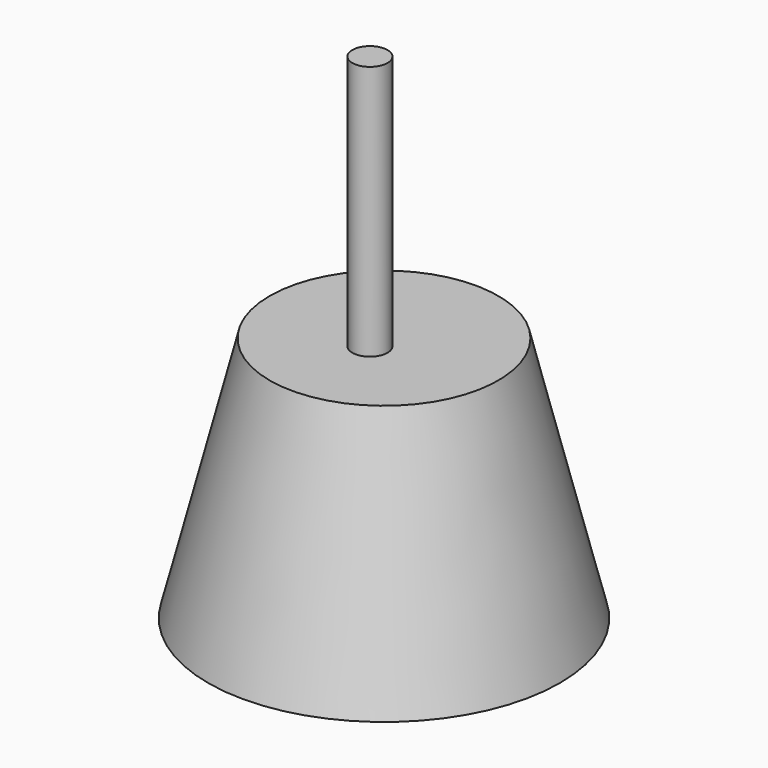
from build123d import *

# Parameters (mm, degrees)
CYLINDER086_R     = 2
CYLINDER086_DEPTH = 30


with BuildPart() as cylindre082:
    # Cylinder086 → Cylinder086 (new body)
    with BuildSketch(Plane(origin=(8, -13, 88), x_dir=(1, 0, 0), z_dir=(0, 0, 1))):
        Circle(CYLINDER086_R)
    extrude(amount=CYLINDER086_DEPTH)


with BuildPart() as obj1:
    # Cone017 → Cone017 (revolve)
    with BuildSketch(Plane(origin=(8, -11, 73), x_dir=(-1, 0, 0), z_dir=(0, 1, 0))):
        Polygon((0, 0), (18, 0), (11, 26), (0, 26), align=None)
    revolve(axis=Axis((8, -11, 73), (0, 0, 1)))


with BuildPart() as fusion047:
    # Cone018 → Cone018 (revolve)
    with BuildSketch(Plane(origin=(8, -11, 73), x_dir=(-1, 0, 0), z_dir=(0, 1, 0))):
        Polygon((0, 0), (20, 0), (13, 28), (0, 28), align=None)
    revolve(axis=Axis((8, -11, 73), (0, 0, 1)))

    # Cut044: cut obj1
    add(obj1.part, mode=Mode.SUBTRACT)


with BuildPart() as fusion047_1:
    # Cut044 placement: moved
    add(fusion047.part.moved(Location((0, 0, -12))))

    # Fusion047: union Cylindre082
    add(cylindre082.part)


solid = fusion047_1.part
